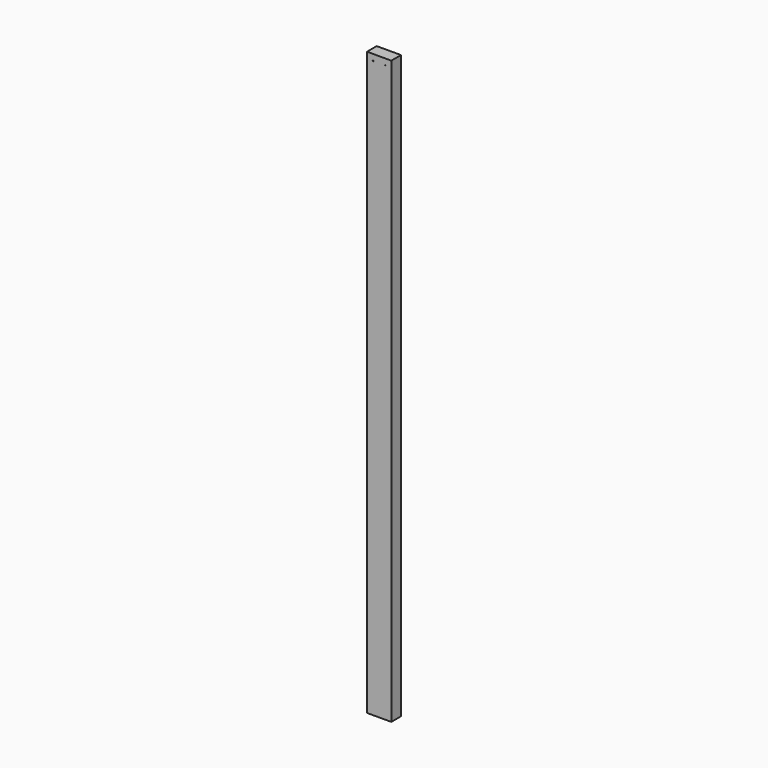
from build123d import *

# Parameters (mm, degrees)
F0_W     = 101.6
F0_H     = 2438.4
F0_R     = 1.5875
F1_DEPTH = 50.8
F2_DEPTH = 25.4


with BuildPart() as f1:
    # F0 (on Front) → F1 (new body)
    with BuildSketch(Plane.XZ):
        with Locations((-225.759149, -4.948577)):
            Rectangle(F0_W, F0_H)
        with Locations((-251.159149, 1188.851423)):
            Circle(F0_R, mode=Mode.SUBTRACT)
        with Locations((-200.359149, 1188.851423)):
            Circle(F0_R, mode=Mode.SUBTRACT)
    extrude(amount=F1_DEPTH)

    # F0 (on Front) → F2 (join)
    with BuildSketch(Plane.XZ):
        with Locations((-225.759149, -4.948577)):
            Rectangle(F0_W, F0_H)
        with Locations((-251.159149, 1188.851423)):
            Circle(F0_R, mode=Mode.SUBTRACT)
        with Locations((-200.359149, 1188.851423)):
            Circle(F0_R, mode=Mode.SUBTRACT)
    extrude(amount=F2_DEPTH)


solid = f1.part
